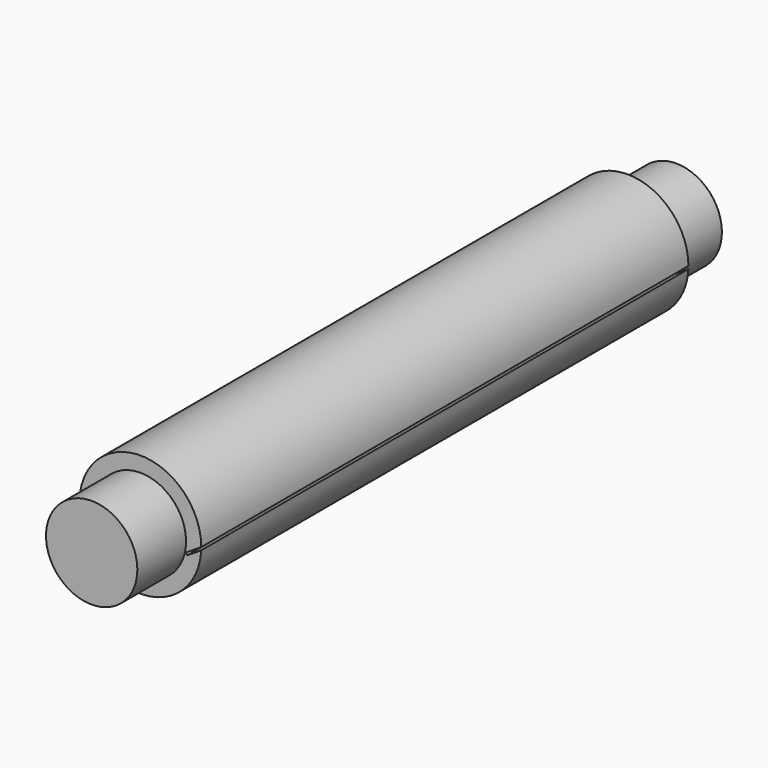
from build123d import *

# Parameters (mm, degrees)
F0_R     = 12.7
F0_R_2   = 9.525
F0_W     = 10.16
F0_H     = 10.16
F1_DEPTH = 127
F2_DEPTH = 12.7
F3_W     = 10.16
F3_H     = 10.16
F4_DEPTH = 12.7
F5_R     = 9.525
F6_DEPTH = 12.7
F8_DEPTH = 139.701


with BuildPart() as f1:
    # F0 (on Front) → F1 (new body)
    with BuildSketch(Plane.XZ):
        Circle(F0_R)
        Circle(F0_R_2, mode=Mode.SUBTRACT)
        Circle(F0_R_2)
        Rectangle(F0_W, F0_H, mode=Mode.SUBTRACT)
        Rectangle(F0_W, F0_H)
    extrude(amount=F1_DEPTH)

    # F0 (on Front) → F2 (join)
    with BuildSketch(Plane.XZ):
        Circle(F0_R_2)
        Rectangle(F0_W, F0_H, mode=Mode.SUBTRACT)
        Rectangle(F0_W, F0_H)
    extrude(amount=-F2_DEPTH)

    # F3 (on face) → F4 (cut)
    with BuildSketch(Plane(origin=(0, 12.7, 0), x_dir=(-1, 0, 0), z_dir=(0, 1, 0))):
        Rectangle(F3_W, F3_H)
    extrude(amount=-F4_DEPTH, mode=Mode.SUBTRACT)

    # F5 (on face) → F6 (join)
    with BuildSketch(Plane.XZ.offset(127)):
        Circle(F5_R)
    extrude(amount=F6_DEPTH)

    # F7 (on face) → F8 (cut, through all)
    with BuildSketch(Plane.XZ.offset(127)):
        Polygon((14.4898414551, 1.1373524412), (12.7, 0), (9.4843178079, -2.0434010961), (9.7567712874, -2.4721587217), (14.7622949346, 0.7085948155), align=None)
    extrude(amount=-F8_DEPTH, mode=Mode.SUBTRACT)


solid = f1.part
